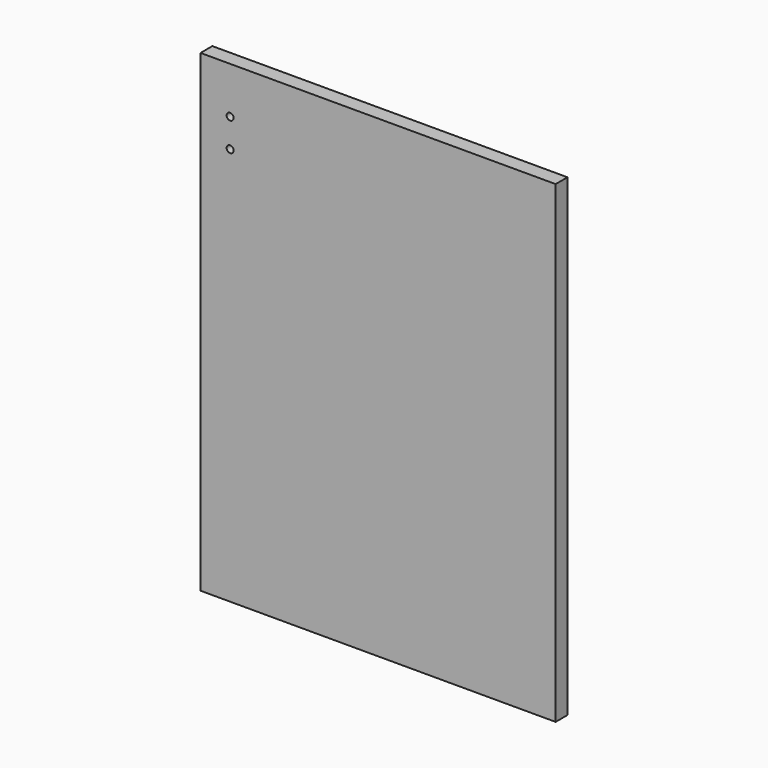
from build123d import *

# Parameters (mm, degrees)
F0_W       = 152.4
F0_H       = 203.2
F1_DEPTH   = 6.35
F3_R       = 1.5
F1_FACE1_W = 152.4
F1_FACE1_H = 203.2
F4_DEPTH   = 76.2


with BuildPart() as f1:
    # F0 (on Front) → F1 (new body)
    with BuildSketch(Plane.XZ):
        Rectangle(F0_W, F0_H)
    extrude(amount=F1_DEPTH)

    # F3 (on face) + F1_face1 (on face) → F4 (cut)
    with BuildSketch(Plane.XZ.offset(6.35)):
        with Locations((-63.5, 81.6420540214)):
            Circle(F3_R)
        with Locations((-63.5, 69.3465694785)):
            Circle(F3_R)
    with BuildSketch(Plane(origin=(0, 0, 0), x_dir=(1, 0, 0), z_dir=(0, 1, 0))):
        Rectangle(F1_FACE1_W, F1_FACE1_H)
    extrude(amount=-F4_DEPTH, dir=(0, -1, 0), mode=Mode.SUBTRACT)


solid = f1.part
